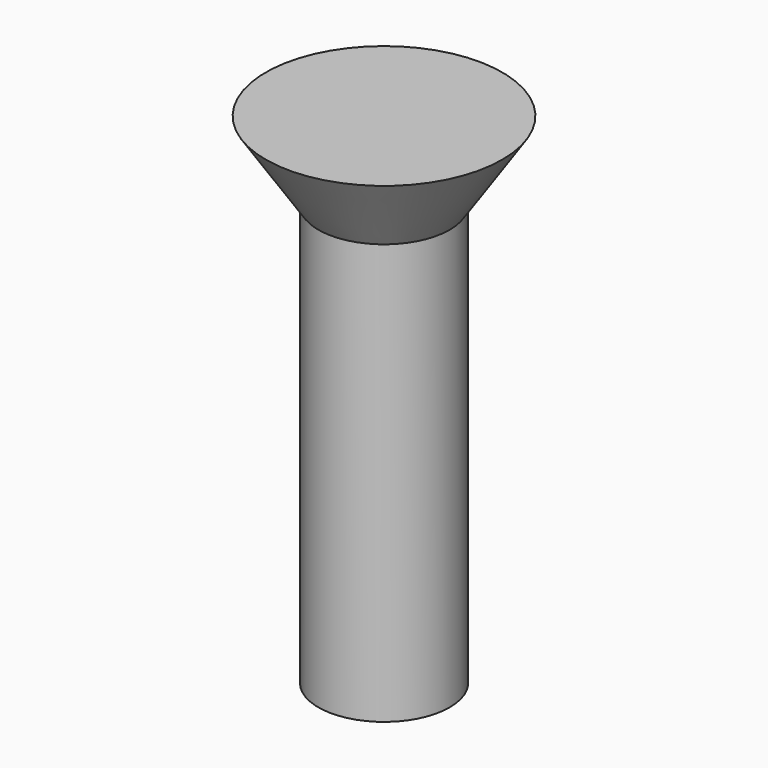
from build123d import *

# Parameters (mm, degrees)
CYLINDER011_R                   = 2.5
CYLINDER011_DEPTH               = 16
FUSION001018017_PLACEMENT_ANGLE = 180
CLONE015_PLACEMENT_ANGLE        = 180


with BuildPart() as cone003:
    # Cone003 → Cone003 (revolve)
    with BuildSketch(Plane(origin=(0, 0, -3), x_dir=(1, 0, 0), z_dir=(0, -1, 0))):
        Polygon((0, 0), (4.5, 0), (2.5, 3), (0, 3), align=None)
    revolve(axis=Axis((0, 0, -3), (0, 0, 1)))


with BuildPart() as obj1:
    # Cylinder011 → Cylinder011 (new body)
    with BuildSketch(Plane.XY):
        Circle(CYLINDER011_R)
    extrude(amount=CYLINDER011_DEPTH)

    # Fusion001018017: union Cone003
    add(cone003.part)


with BuildPart() as obj1_1:
    # Fusion001018017 placement: moved
    add(obj1.part.moved(Location((45, 15, 21))).rotate(Axis((45, 15, 21), (0, 1, 0)), FUSION001018017_PLACEMENT_ANGLE))


with BuildPart() as obj1_2:
    # Clone015 placement: moved
    add(obj1_1.part.moved(Location((115, 110, 0))).rotate(Axis((115, 110, 0), (0, 0, 1)), CLONE015_PLACEMENT_ANGLE))


solid = obj1_2.part
